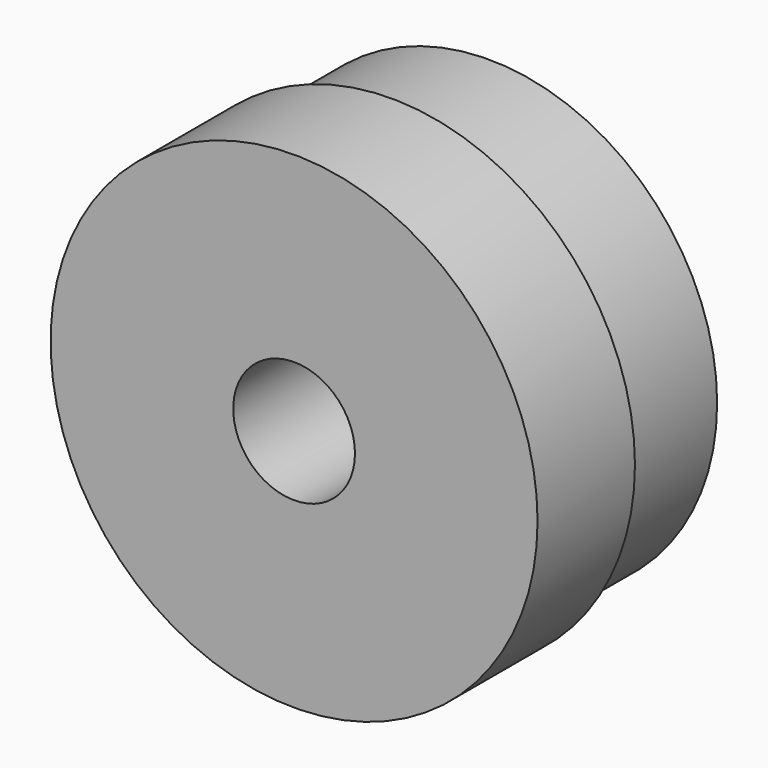
from build123d import *

# Parameters (mm, degrees)
F0_R     = 25.4
F0_R_2   = 6.35
F1_DEPTH = 25.4
F2_R     = 3.3274
F3_DEPTH = 6.35
F4_R     = 25.4
F4_R_2   = 23.8125
F5_DEPTH = 12.7


with BuildPart() as f1:
    # F0 (on Front) → F1 (new body)
    with BuildSketch(Plane.XZ):
        Circle(F0_R)
        Circle(F0_R_2, mode=Mode.SUBTRACT)
    extrude(amount=F1_DEPTH)

    # F4 (on Front) → F5 (cut)
    with BuildSketch(Plane.XZ):
        Circle(F4_R)
        Circle(F4_R_2, mode=Mode.SUBTRACT)
    extrude(amount=F5_DEPTH, mode=Mode.SUBTRACT)


with BuildPart() as f3:
    # F2 (on Front) → F3 (new body)
    with BuildSketch(Plane.XZ):
        Circle(F2_R)
    extrude(amount=F3_DEPTH)


solid = Compound([f1.part, f3.part])
